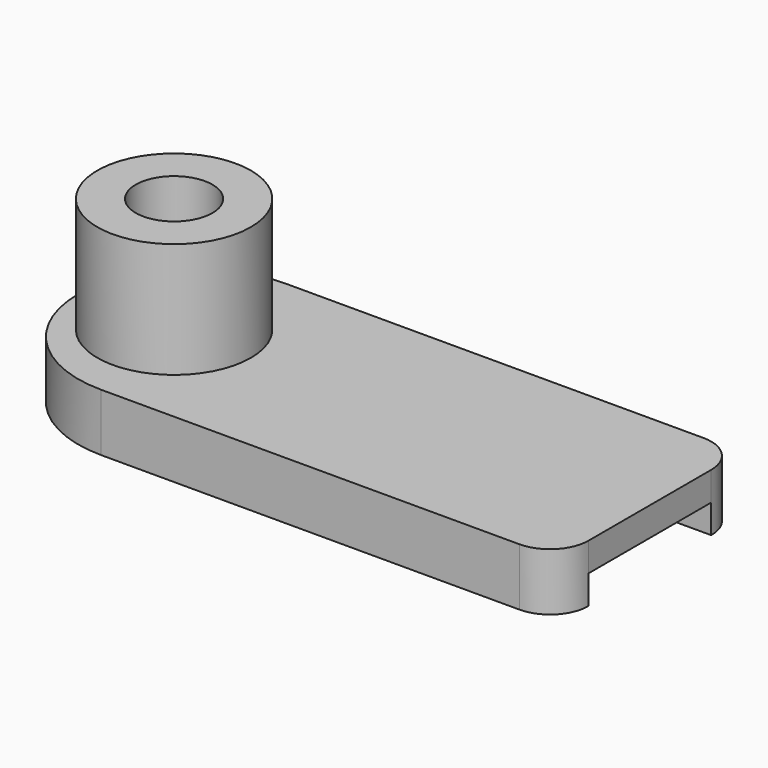
from build123d import *

# Parameters (mm, degrees)
F1_DEPTH  = 381
F3_R      = 508
F4_DEPTH  = 762
F5_R      = 254
F6_DEPTH  = 1143.001
F7_W      = 1016
F7_H      = 190.5
F8_DEPTH  = 3784.601
F9_R      = 330.2
F10_DEPTH = 127


with BuildPart() as f1:
    # F0 (on Top) → F1 (new body)
    with BuildSketch(Plane.XY):
        with BuildLine():
            Line((-1384.3, -762), (1384.3, -762))
            Line((1384.3, -762), (1384.3, -501.65))
            Line((1384.3, -501.65), (1384.3, 508))
            Line((1384.3, 508), (1384.3, 762))
            Line((1384.3, 762), (-1384.3, 762))
            ThreePointArc((-1384.3, 762), (-845.4846327359, 538.8153672641), (-622.3, 0))
            ThreePointArc((-622.3, 0), (-845.4846327359, -538.8153672641), (-1384.3, -762))
        make_face()
        with BuildLine():
            Line((1384.3, -501.65), (1384.3, -762))
            ThreePointArc((1384.3, -762), (1563.9051224214, -687.6051224214), (1638.3, -508))
            Line((1638.3, -508), (1390.65, -508))
            ThreePointArc((1390.65, -508), (1386.1598719395, -506.1401280605), (1384.3, -501.65))
        make_face()
        with BuildLine():
            ThreePointArc((-1384.3, 762), (-2146.3, 0), (-1384.3, -762))
            Line((-1384.3, -762), (-1384.3, 762))
        make_face()
        with BuildLine():
            Line((-1384.3, 762), (-1384.3, -762))
            ThreePointArc((-1384.3, -762), (-845.4846327359, -538.8153672641), (-622.3, 0))
            ThreePointArc((-622.3, 0), (-845.4846327359, 538.8153672641), (-1384.3, 762))
        make_face()
        with BuildLine():
            Line((1384.3, 508), (1384.3, -501.65))
            ThreePointArc((1384.3, -501.65), (1386.1598719395, -506.1401280605), (1390.65, -508))
            Line((1390.65, -508), (1638.3, -508))
            Line((1638.3, -508), (1638.3, 508))
            Line((1638.3, 508), (1384.3, 508))
        make_face()
        with BuildLine():
            Line((1384.3, 762), (1384.3, 508))
            Line((1384.3, 508), (1638.3, 508))
            ThreePointArc((1638.3, 508), (1563.9051224214, 687.6051224214), (1384.3, 762))
        make_face()
    extrude(amount=F1_DEPTH)

    # F3 (on face) → F4 (join)
    with BuildSketch(Plane.XY.offset(381)):
        with Locations((-1511.3, 0)):
            Circle(F3_R)
    extrude(amount=F4_DEPTH)

    # F5 (on face) → F6 (cut, through all)
    with BuildSketch(Plane.XY.offset(1143)):
        with Locations((-1511.3, 0)):
            Circle(F5_R)
    extrude(amount=-F6_DEPTH, mode=Mode.SUBTRACT)

    # F7 (on face) → F8 (cut, through all)
    with BuildSketch(Plane.YZ.offset(1638.3)):
        with Locations((0, 95.25)):
            Rectangle(F7_W, F7_H)
    extrude(amount=-F8_DEPTH, mode=Mode.SUBTRACT)

    # F9 (on face) → F10 (cut)
    with BuildSketch(Plane(origin=(0, 0, 190.5), x_dir=(1, 0, 0), z_dir=(0, 0, -1))):
        with Locations((-1511.3, 0)):
            Circle(F9_R)
    extrude(amount=-F10_DEPTH, mode=Mode.SUBTRACT)


solid = f1.part
